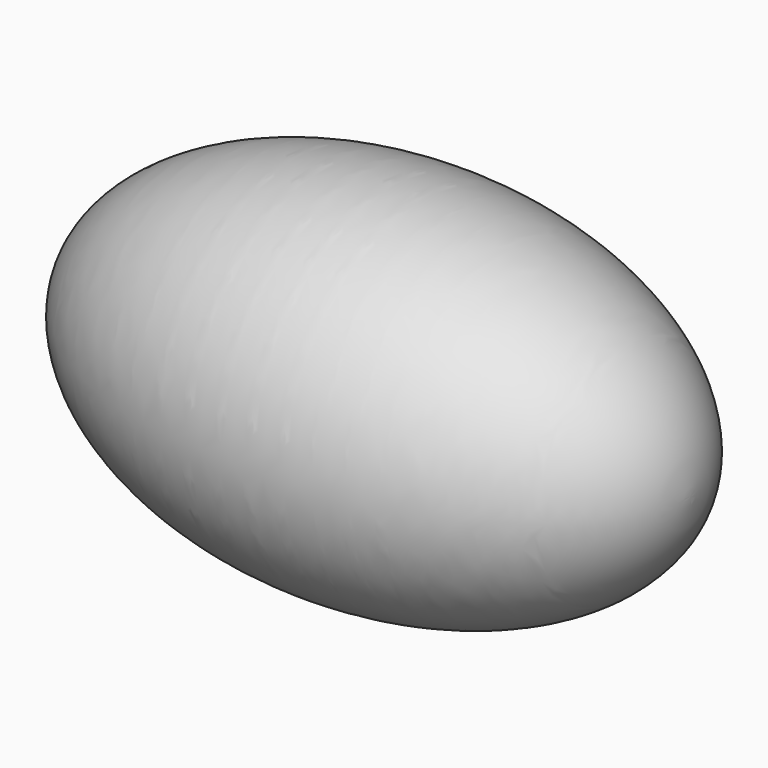
from build123d import *


with BuildPart() as f1:
    # F0 (on Top) → F1 (revolve)
    with BuildSketch(Plane.XY):
        with BuildLine():
            add(Edge.make_bspline(
                [(-25.123263, 0), (-25.123263, -14.710959), (0, -14.710959), (25.123263, -14.710959), (25.123263, 0)],
                knots=[3.141593, 3.141593, 3.141593, 4.712389, 4.712389, 6.283185, 6.283185, 6.283185], degree=2, weights=[1, 0.707107, 1, 0.707107, 1]))
            Line((25.123263, 0), (-25.123263, 0))
        make_face()
    revolve(axis=Axis((0.548147, 0, 0), (1, 0, 0)))


solid = f1.part
